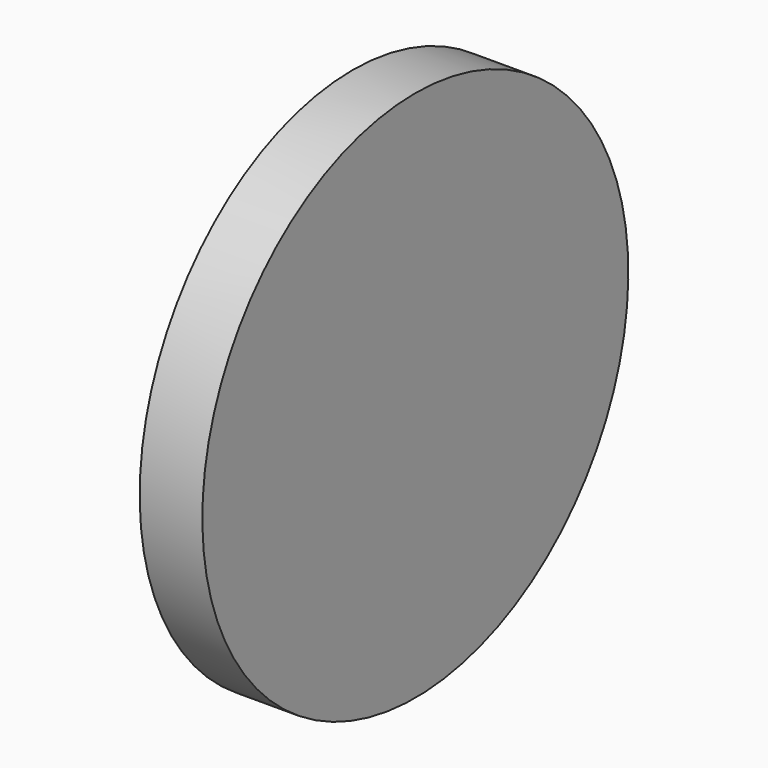
from build123d import *

# Parameters (mm, degrees)
F3_D     = 25.4
F3_DEPTH = 12.701


with BuildPart() as f1:
    # F0 (on Front) → F1 (revolve)
    with BuildSketch(Plane.XZ):
        Polygon((-25.4, 9.525), (0, 9.525), (0, 63.5), (-12.7, 63.5), (-12.7, 25.4), (-25.4, 25.4), align=None)
    revolve(axis=Axis((-12.7, 0, 9.525), (-1, 0, 0)))

    # F3 (through all, one way)
    with BuildSketch(Plane(origin=(-12.7, 0, 0), x_dir=(0, -1, 0), z_dir=(1, 0, 0))):
        with Locations((0, -9.525)):
            Circle(F3_D / 2)
    extrude(amount=-F3_DEPTH, mode=Mode.SUBTRACT)


solid = f1.part
